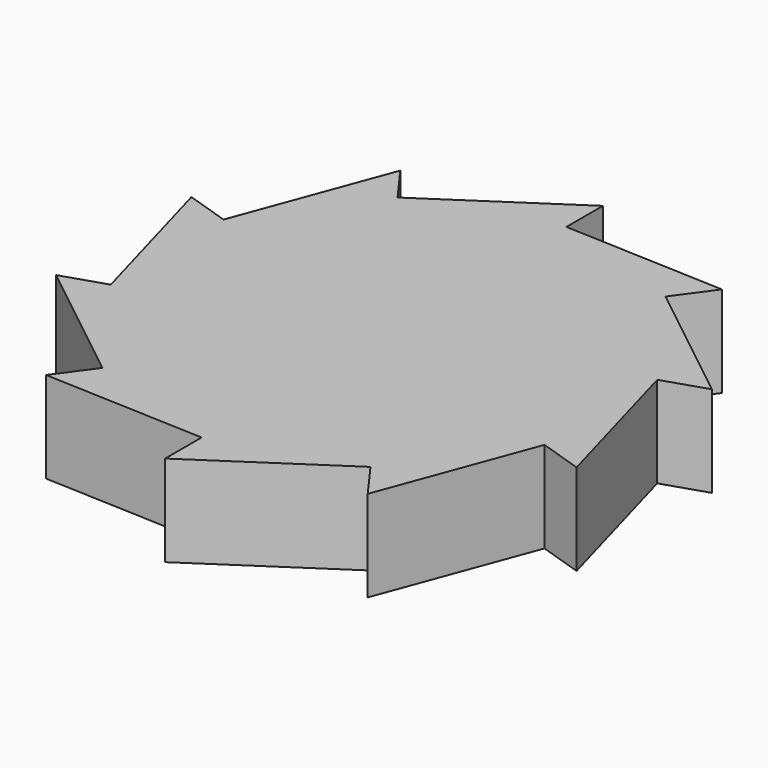
from build123d import *

# Parameters (mm, degrees)
F1_DEPTH = 10


with BuildPart() as f1:
    # F0 (on Top) → F1 (new body)
    with BuildSketch(Plane.XY):
        Polygon((0, 25), (0, 30), (-14.694631, 20.225425), (-17.633558, 24.27051), (-23.776413, 7.725425), (-28.531695, 9.27051), (-23.776413, -7.725425), (-28.531695, -9.27051), (-14.694631, -20.225425), (-17.633558, -24.27051), (0, -25), (0, -30), (14.694631, -20.225425), (17.633558, -24.27051), (23.776413, -7.725425), (28.531695, -9.27051), (23.776413, 7.725425), (28.531695, 9.27051), (14.694631, 20.225425), (17.633558, 24.27051), align=None)
    extrude(amount=F1_DEPTH)


solid = f1.part
